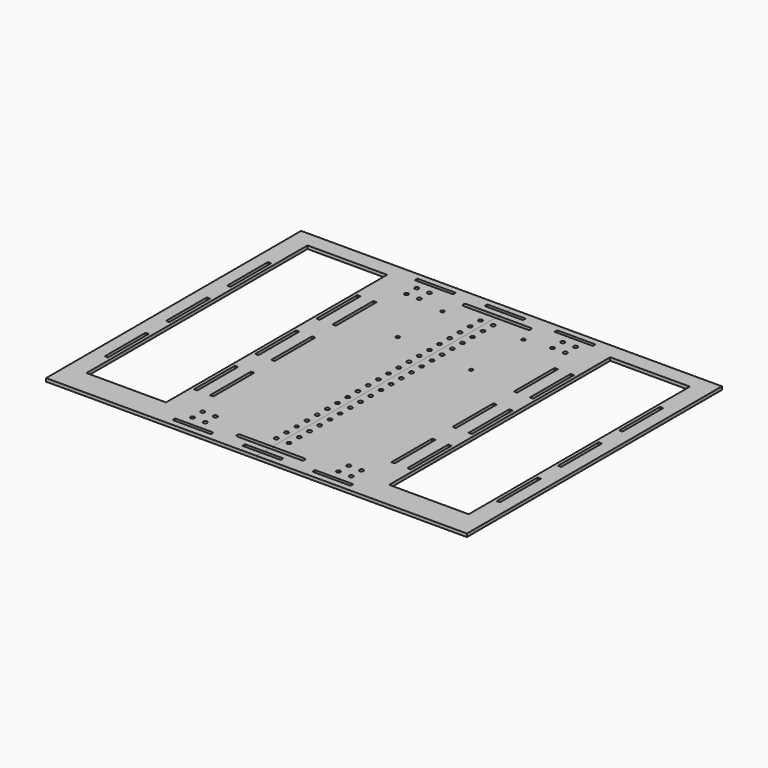
from build123d import *

# Parameters (mm, degrees)
F0_R     = 1.984375
F0_W     = 38.1
F0_H     = 3.302
F0_W_2   = 3.302
F0_H_2   = 50.8
F0_W_3   = 79.248
F0_H_3   = 275.232702
F0_R_2   = 1.75
F1_DEPTH = 3.175
F2_DEPTH = 3.175


with BuildPart() as f1:
    # F0 (on Top) → F1 (new body)
    with BuildSketch(Plane.XY):
        with BuildLine():
            Line((-111.125, -158.75), (0, -158.75))
            Line((0, -158.75), (0, -152.4))
            Line((0, -152.4), (-19.05, -152.4))
            Line((-19.05, -152.4), (-19.05, -149.098))
            Line((-19.05, -149.098), (0, -149.098))
            Line((0, -149.098), (0, -142.748))
            Line((0, -142.748), (-31.75, -142.748))
            ThreePointArc((-31.75, -142.748), (-33.734375, -140.763625), (-31.75, -138.77925))
            Line((-31.75, -138.77925), (0, -138.77925))
            Line((0, -138.77925), (0, 138.77925))
            Line((0, 138.77925), (-31.75, 138.77925))
            ThreePointArc((-31.75, 138.77925), (-33.734375, 140.763625), (-31.75, 142.748))
            Line((-31.75, 142.748), (0, 142.748))
            Line((0, 142.748), (0, 149.098))
            Line((0, 149.098), (-19.05, 149.098))
            Line((-19.05, 149.098), (-19.05, 152.4))
            Line((-19.05, 152.4), (0, 152.4))
            Line((0, 152.4), (0, 158.75))
            Line((0, 158.75), (-111.125, 158.75))
            Line((-111.125, 158.75), (-209.55, 158.75))
            Line((-209.55, 158.75), (-209.55, -158.75))
            Line((-209.55, -158.75), (-111.125, -158.75))
        make_face()
        with Locations((-79.121, -139.573)):
            Circle(F0_R, mode=Mode.SUBTRACT)
        with Locations((-69.596, -150.749)):
            Rectangle(F0_W, F0_H, mode=Mode.SUBTRACT)
        with Locations((-66.421, -139.573)):
            Circle(F0_R, mode=Mode.SUBTRACT)
        with Locations((-79.121, -126.873)):
            Circle(F0_R, mode=Mode.SUBTRACT)
        with Locations((-66.421, -126.873)):
            Circle(F0_R, mode=Mode.SUBTRACT)
        with Locations((-6.35, -126.07925)):
            Circle(F0_R, mode=Mode.SUBTRACT)
        with Locations((-6.35, -113.37925)):
            Circle(F0_R, mode=Mode.SUBTRACT)
        with Locations((-6.35, -100.67925)):
            Circle(F0_R, mode=Mode.SUBTRACT)
        with Locations((-6.35, -87.97925)):
            Circle(F0_R, mode=Mode.SUBTRACT)
        with Locations((-195.199, -76.2)):
            Rectangle(F0_W_2, F0_H_2, mode=Mode.SUBTRACT)
        with Locations((-106.299, -76.2)):
            Rectangle(F0_W_2, F0_H_2, mode=Mode.SUBTRACT)
        with Locations((-90.297, -76.2)):
            Rectangle(F0_W_2, F0_H_2, mode=Mode.SUBTRACT)
        with Locations((-6.35, -75.27925)):
            Circle(F0_R, mode=Mode.SUBTRACT)
        with Locations((-6.35, -62.57925)):
            Circle(F0_R, mode=Mode.SUBTRACT)
        with Locations((-6.35, -49.87925)):
            Circle(F0_R, mode=Mode.SUBTRACT)
        with Locations((-6.35, -37.17925)):
            Circle(F0_R, mode=Mode.SUBTRACT)
        with Locations((-6.35, -24.47925)):
            Circle(F0_R, mode=Mode.SUBTRACT)
        with Locations((-6.35, -11.77925)):
            Circle(F0_R, mode=Mode.SUBTRACT)
        with Locations((-195.199, 0)):
            Rectangle(F0_W_2, F0_H_2, mode=Mode.SUBTRACT)
        with Locations((-150.749, 5.131649)):
            Rectangle(F0_W_3, F0_H_3, mode=Mode.SUBTRACT)
        with Locations((-106.299, 0)):
            Rectangle(F0_W_2, F0_H_2, mode=Mode.SUBTRACT)
        with Locations((-195.199, 76.2)):
            Rectangle(F0_W_2, F0_H_2, mode=Mode.SUBTRACT)
        with Locations((-106.299, 76.2)):
            Rectangle(F0_W_2, F0_H_2, mode=Mode.SUBTRACT)
        with Locations((-90.297, 0)):
            Rectangle(F0_W_2, F0_H_2, mode=Mode.SUBTRACT)
        with Locations((-6.35, 0.92075)):
            Circle(F0_R, mode=Mode.SUBTRACT)
        with Locations((-6.35, 13.62075)):
            Circle(F0_R, mode=Mode.SUBTRACT)
        with Locations((-6.35, 26.32075)):
            Circle(F0_R, mode=Mode.SUBTRACT)
        with Locations((-6.35, 39.02075)):
            Circle(F0_R, mode=Mode.SUBTRACT)
        with Locations((-90.297, 76.2)):
            Rectangle(F0_W_2, F0_H_2, mode=Mode.SUBTRACT)
        with Locations((-6.35, 51.72075)):
            Circle(F0_R, mode=Mode.SUBTRACT)
        with Locations((-39.037, 65.881)):
            Circle(F0_R_2, mode=Mode.SUBTRACT)
        with Locations((-6.35, 64.42075)):
            Circle(F0_R, mode=Mode.SUBTRACT)
        with Locations((-6.35, 77.12075)):
            Circle(F0_R, mode=Mode.SUBTRACT)
        with Locations((-6.35, 89.82075)):
            Circle(F0_R, mode=Mode.SUBTRACT)
        with Locations((-6.35, 102.52075)):
            Circle(F0_R, mode=Mode.SUBTRACT)
        with Locations((-6.35, 115.22075)):
            Circle(F0_R, mode=Mode.SUBTRACT)
        with Locations((-79.121, 126.873)):
            Circle(F0_R, mode=Mode.SUBTRACT)
        with Locations((-66.421, 126.873)):
            Circle(F0_R, mode=Mode.SUBTRACT)
        with Locations((-79.121, 139.573)):
            Circle(F0_R, mode=Mode.SUBTRACT)
        with Locations((-66.421, 139.573)):
            Circle(F0_R, mode=Mode.SUBTRACT)
        with Locations((-69.596, 150.749)):
            Rectangle(F0_W, F0_H, mode=Mode.SUBTRACT)
        with Locations((-39.037, 121.615)):
            Circle(F0_R_2, mode=Mode.SUBTRACT)
        with Locations((-6.35, 127.92075)):
            Circle(F0_R, mode=Mode.SUBTRACT)
    extrude(amount=F1_DEPTH)


with BuildPart() as f2:
    # F0 (on Top) → F2 (new body)
    with BuildSketch(Plane.XY):
        with BuildLine():
            Line((0, -158.75), (111.125, -158.75))
            Line((111.125, -158.75), (209.55, -158.75))
            Line((209.55, -158.75), (209.55, 158.75))
            Line((209.55, 158.75), (111.125, 158.75))
            Line((111.125, 158.75), (0, 158.75))
            Line((0, 158.75), (0, 152.4))
            Line((0, 152.4), (19.05, 152.4))
            Line((19.05, 152.4), (19.05, 149.098))
            Line((19.05, 149.098), (0, 149.098))
            Line((0, 149.098), (0, 142.748))
            Line((0, 142.748), (31.75, 142.748))
            ThreePointArc((31.75, 142.748), (33.734375, 140.763625), (31.75, 138.77925))
            Line((31.75, 138.77925), (0, 138.77925))
            Line((0, 138.77925), (0, -138.77925))
            Line((0, -138.77925), (31.75, -138.77925))
            ThreePointArc((31.75, -138.77925), (33.734375, -140.763625), (31.75, -142.748))
            Line((31.75, -142.748), (0, -142.748))
            Line((0, -142.748), (0, -149.098))
            Line((0, -149.098), (19.05, -149.098))
            Line((19.05, -149.098), (19.05, -152.4))
            Line((19.05, -152.4), (0, -152.4))
            Line((0, -152.4), (0, -158.75))
        make_face()
        with Locations((6.35, -126.07925)):
            Circle(F0_R, mode=Mode.SUBTRACT)
        with Locations((69.596, -150.749)):
            Rectangle(F0_W, F0_H, mode=Mode.SUBTRACT)
        with Locations((66.421, -139.573)):
            Circle(F0_R, mode=Mode.SUBTRACT)
        with Locations((79.121, -139.573)):
            Circle(F0_R, mode=Mode.SUBTRACT)
        with Locations((66.421, -126.873)):
            Circle(F0_R, mode=Mode.SUBTRACT)
        with Locations((79.121, -126.873)):
            Circle(F0_R, mode=Mode.SUBTRACT)
        with Locations((6.35, -113.37925)):
            Circle(F0_R, mode=Mode.SUBTRACT)
        with Locations((6.35, -100.67925)):
            Circle(F0_R, mode=Mode.SUBTRACT)
        with Locations((6.35, -87.97925)):
            Circle(F0_R, mode=Mode.SUBTRACT)
        with Locations((6.35, -75.27925)):
            Circle(F0_R, mode=Mode.SUBTRACT)
        with Locations((6.35, -62.57925)):
            Circle(F0_R, mode=Mode.SUBTRACT)
        with Locations((6.35, -49.87925)):
            Circle(F0_R, mode=Mode.SUBTRACT)
        with Locations((90.297, -76.2)):
            Rectangle(F0_W_2, F0_H_2, mode=Mode.SUBTRACT)
        with Locations((6.35, -37.17925)):
            Circle(F0_R, mode=Mode.SUBTRACT)
        with Locations((6.35, -24.47925)):
            Circle(F0_R, mode=Mode.SUBTRACT)
        with Locations((6.35, -11.77925)):
            Circle(F0_R, mode=Mode.SUBTRACT)
        with Locations((106.299, -76.2)):
            Rectangle(F0_W_2, F0_H_2, mode=Mode.SUBTRACT)
        with Locations((195.199, -76.2)):
            Rectangle(F0_W_2, F0_H_2, mode=Mode.SUBTRACT)
        with Locations((6.35, 0.92075)):
            Circle(F0_R, mode=Mode.SUBTRACT)
        with Locations((6.35, 13.62075)):
            Circle(F0_R, mode=Mode.SUBTRACT)
        with Locations((6.35, 26.32075)):
            Circle(F0_R, mode=Mode.SUBTRACT)
        with Locations((6.35, 39.02075)):
            Circle(F0_R, mode=Mode.SUBTRACT)
        with Locations((90.297, 0)):
            Rectangle(F0_W_2, F0_H_2, mode=Mode.SUBTRACT)
        with Locations((6.35, 51.72075)):
            Circle(F0_R, mode=Mode.SUBTRACT)
        with Locations((39.921, 58.698)):
            Circle(F0_R_2, mode=Mode.SUBTRACT)
        with Locations((6.35, 64.42075)):
            Circle(F0_R, mode=Mode.SUBTRACT)
        with Locations((6.35, 77.12075)):
            Circle(F0_R, mode=Mode.SUBTRACT)
        with Locations((90.297, 76.2)):
            Rectangle(F0_W_2, F0_H_2, mode=Mode.SUBTRACT)
        with Locations((106.299, 0)):
            Rectangle(F0_W_2, F0_H_2, mode=Mode.SUBTRACT)
        with Locations((150.749, 5.131649)):
            Rectangle(F0_W_3, F0_H_3, mode=Mode.SUBTRACT)
        with Locations((195.199, 0)):
            Rectangle(F0_W_2, F0_H_2, mode=Mode.SUBTRACT)
        with Locations((106.299, 76.2)):
            Rectangle(F0_W_2, F0_H_2, mode=Mode.SUBTRACT)
        with Locations((195.199, 76.2)):
            Rectangle(F0_W_2, F0_H_2, mode=Mode.SUBTRACT)
        with Locations((6.35, 89.82075)):
            Circle(F0_R, mode=Mode.SUBTRACT)
        with Locations((6.35, 102.52075)):
            Circle(F0_R, mode=Mode.SUBTRACT)
        with Locations((6.35, 115.22075)):
            Circle(F0_R, mode=Mode.SUBTRACT)
        with Locations((6.35, 127.92075)):
            Circle(F0_R, mode=Mode.SUBTRACT)
        with Locations((39.921, 123.698)):
            Circle(F0_R_2, mode=Mode.SUBTRACT)
        with Locations((66.421, 126.873)):
            Circle(F0_R, mode=Mode.SUBTRACT)
        with Locations((79.121, 126.873)):
            Circle(F0_R, mode=Mode.SUBTRACT)
        with Locations((66.421, 139.573)):
            Circle(F0_R, mode=Mode.SUBTRACT)
        with Locations((69.596, 150.749)):
            Rectangle(F0_W, F0_H, mode=Mode.SUBTRACT)
        with Locations((79.121, 139.573)):
            Circle(F0_R, mode=Mode.SUBTRACT)
    extrude(amount=F2_DEPTH)


solid = Compound([f1.part, f2.part])
